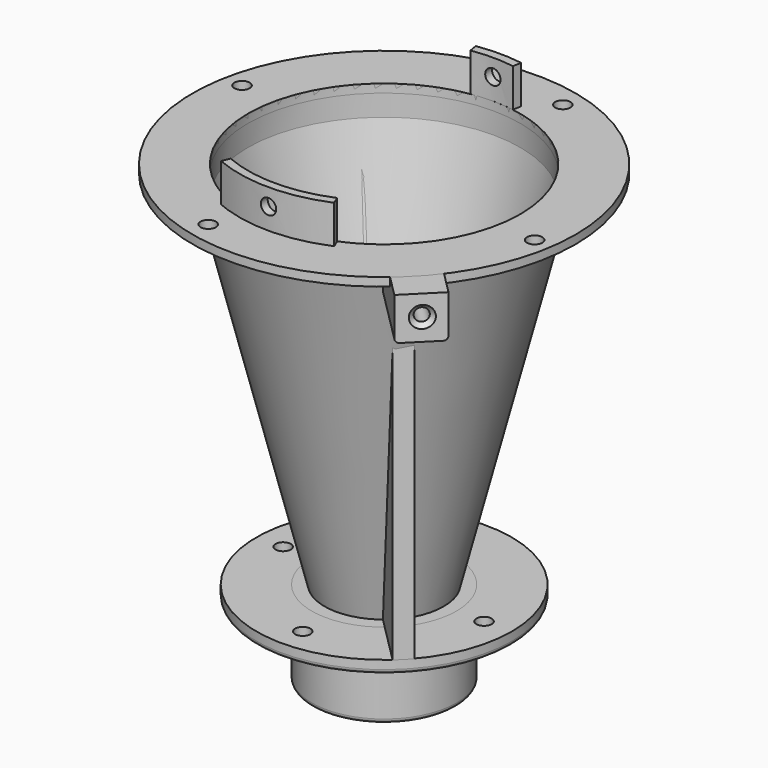
from build123d import *

# Parameters (mm, degrees)
CYLINDER004_R          = 32
CYLINDER004_DEPTH      = 6
CYLINDER003_R          = 34
CYLINDER003_DEPTH      = 6
CYLINDER008_R          = 1.8
CYLINDER008_DEPTH      = 100
CYLINDER008_ROLL_ANGLE = 90
CYLINDER006_R          = 32
CYLINDER006_DEPTH      = 10
CYLINDER005_R          = 34
CYLINDER005_DEPTH      = 10
POCKET001_DEPTH        = 9
CYLINDER007_R          = 14.8
CYLINDER007_DEPTH      = 2
CYLINDER001_R          = 13
CYLINDER001_DEPTH      = 25
CYLINDER_R             = 17
CYLINDER_DEPTH         = 20
FILLET_R               = 1
CYLINDER002_R          = 30
CYLINDER002_DEPTH      = 3
SKETCH_R               = 1.8
POCKET_DEPTH           = 5
FILLET001_R            = 1
BOX_W                  = 4
BOX_H                  = 60
BOX_DEPTH              = 74
BOX_PLACEMENT_ANGLE    = 45
FILLET002_R            = 1
BOX001_W               = 10
BOX001_H               = 20
BOX001_DEPTH           = 10
BOX001_PLACEMENT_ANGLE = 45
FILLET003_R            = 1
FILLET004_R            = 1
SKETCH004_R            = 1.5
POCKET002_DEPTH        = 10
CHAMFER_SIZE           = 1
CYLINDER009_R          = 32
CYLINDER009_DEPTH      = 2
CYLINDER010_R          = 45
CYLINDER010_DEPTH      = 2
SKETCH005_R            = 1.8
POCKET003_DEPTH        = 5


with BuildPart() as cone001:
    # Cone001 → Cone001 (revolve)
    with BuildSketch(Plane.XZ):
        Polygon((0, 0), (13, 0), (32, 80), (0, 80), align=None)
    revolve(axis=Axis((0, 0, 0), (0, 0, 1)))


with BuildPart() as cut:
    # Cone → Cone (revolve)
    with BuildSketch(Plane.XZ):
        Polygon((0, 0), (14, 0), (34, 80), (0, 80), align=None)
    revolve(axis=Axis((0, 0, 0), (0, 0, 1)))

    # Cut: cut Cone001
    add(cone001.part, mode=Mode.SUBTRACT)


with BuildPart() as cylinder004:
    # Cylinder004 → Cylinder004 (new body)
    with BuildSketch(Plane.XY.offset(80)):
        Circle(CYLINDER004_R)
    extrude(amount=CYLINDER004_DEPTH)


with BuildPart() as cut003:
    # Cylinder003 → Cylinder003 (new body)
    with BuildSketch(Plane.XY.offset(80)):
        Circle(CYLINDER003_R)
    extrude(amount=CYLINDER003_DEPTH)

    # Cut003: cut Cylinder004
    add(cylinder004.part, mode=Mode.SUBTRACT)


with BuildPart() as obj1:
    # Cylinder008 → Cylinder008 (new body)
    with BuildSketch(Plane.XY):
        Circle(CYLINDER008_R)
    extrude(amount=CYLINDER008_DEPTH)


with BuildPart() as obj1_1:
    # Cylinder008 roll: moved
    add(obj1.part.rotate(Axis((0, 0, 0), (1, 0, 0)), CYLINDER008_ROLL_ANGLE))


with BuildPart() as obj1_2:
    # Cylinder008 placement: moved
    add(obj1_1.part.moved(Location((0, 50, 92))))


with BuildPart() as cylinder006:
    # Cylinder006 → Cylinder006 (new body)
    with BuildSketch(Plane.XY.offset(86)):
        Circle(CYLINDER006_R)
    extrude(amount=CYLINDER006_DEPTH)


with BuildPart() as cut006:
    # Cylinder005 → Cylinder005 (new body)
    with BuildSketch(Plane.XY.offset(86)):
        Circle(CYLINDER005_R)
    extrude(amount=CYLINDER005_DEPTH)

    # Cut004: cut Cylinder006
    add(cylinder006.part, mode=Mode.SUBTRACT)

    # Sketch003 → Pocket001 (cut)
    with BuildSketch(Plane.XY.offset(96)):
        Polygon((0, 0), (-5.990578, 37.82302), (-31.650867, 27.834166), (-41.242527, 10.455221), (-39.533127, -18.98452), (-26.522657, -31.615118), (-14.993091, -35.321508), align=None)
        Polygon((0, 0), (6.139302, 38.762029), (24.189667, 32.677479), (37.200134, 15.868335), (39.289402, -13.666372), (33.116558, -24.207699), (21.340666, -34.084259), (14.186315, -33.420863), align=None)
    extrude(amount=-POCKET001_DEPTH, mode=Mode.SUBTRACT)

    # Cut006: cut obj1
    add(obj1_2.part, mode=Mode.SUBTRACT)


with BuildPart() as cylinder007:
    # Cylinder007 → Cylinder007 (new body)
    with BuildSketch(Plane.XY.offset(-5)):
        Circle(CYLINDER007_R)
    extrude(amount=CYLINDER007_DEPTH)


with BuildPart() as cylinder001:
    # Cylinder001 → Cylinder001 (new body)
    with BuildSketch(Plane.XY.offset(-20)):
        Circle(CYLINDER001_R)
    extrude(amount=CYLINDER001_DEPTH)


with BuildPart() as cut005:
    # Cylinder → Cylinder (new body)
    with BuildSketch(Plane.XY.offset(-20)):
        Circle(CYLINDER_R)
    extrude(amount=CYLINDER_DEPTH)

    # Cut001: cut Cylinder001
    add(cylinder001.part, mode=Mode.SUBTRACT)

    # Cut005: cut Cylinder007
    add(cylinder007.part, mode=Mode.SUBTRACT)


with BuildPart() as fillet_body:
    # Fillet base: copy of Cut005
    add(cut005.part)

    # Fillet
    fillet_edges = [fillet_body.edges().sort_by_distance(p)[0] for p in [
        (-17, 0, -20),
    ]]
    fillet(fillet_edges, radius=FILLET_R)


with BuildPart() as fillet001:
    # Cylinder002 → Cylinder002 (new body)
    with BuildSketch(Plane.XY.offset(-3)):
        Circle(CYLINDER002_R)
    extrude(amount=CYLINDER002_DEPTH)

    # Cut002: cut Cylinder001
    add(cylinder001.part, mode=Mode.SUBTRACT)

    # Sketch → Pocket (cut)
    with BuildSketch(Plane(origin=(0, 0, -3), x_dir=(1, 0, 0), z_dir=(0, 0, -1))):
        with Locations((0.005002, 23.911297)):
            Circle(SKETCH_R)
        with Locations((23.477133, 0)):
            Circle(SKETCH_R)
        with Locations((0, -23.032949)):
            Circle(SKETCH_R)
        with Locations((-23.82823, -0.10249)):
            Circle(SKETCH_R)
    extrude(amount=-POCKET_DEPTH, mode=Mode.SUBTRACT)

    # Fillet001
    fillet001_edges = [fillet001.edges().sort_by_distance(p)[0] for p in [
        (-30, 0, -3),
    ]]
    fillet(fillet001_edges, radius=FILLET001_R)


with BuildPart() as cut007:
    # Box → Box (new body)
    with BuildSketch(Plane.XY):
        with Locations((2, 30)):
            Rectangle(BOX_W, BOX_H)
    extrude(amount=BOX_DEPTH)


with BuildPart() as cut007_1:
    # Box placement: moved
    add(cut007.part.moved(Location((20, -22.5, 0))).rotate(Axis((20, -22.5, 0), (0, 0, 1)), BOX_PLACEMENT_ANGLE))

    # Cut007: cut Cone001
    add(cone001.part, mode=Mode.SUBTRACT)


with BuildPart() as fillet002:
    # Fillet002 base: copy of Cut005
    add(cut005.part)

    # Fillet002
    fillet002_edges = [fillet002.edges().sort_by_distance(p)[0] for p in [
        (-17, 0, -20),
    ]]
    fillet(fillet002_edges, radius=FILLET002_R)


with BuildPart() as chamfer_body:
    # Box001 → Box001 (new body)
    with BuildSketch(Plane.XY):
        with Locations((5, 10)):
            Rectangle(BOX001_W, BOX001_H)
    extrude(amount=BOX001_DEPTH)


with BuildPart() as chamfer_body_1:
    # Box001 placement: moved
    add(chamfer_body.part.moved(Location((34, -39.5, 77))).rotate(Axis((34, -39.5, 77), (0, 0, 1)), BOX001_PLACEMENT_ANGLE))

    # Fillet003
    fillet003_edges = [chamfer_body_1.edges().sort_by_distance(p)[0] for p in [
        (34, -25.357864, 77),
    ]]
    fillet(fillet003_edges, radius=FILLET003_R)

    # Fillet004
    fillet004_edges = [chamfer_body_1.edges().sort_by_distance(p)[0] for p in [
        (26.928932, -32.428932, 77),
    ]]
    fillet(fillet004_edges, radius=FILLET004_R)

    # Sketch004 → Pocket002 (cut)
    with BuildSketch(Plane(origin=(36.75, -36.75, 0), x_dir=(0.707107, 0.707107, 0), z_dir=(0.707107, -0.707107, 0))):
        with Locations((1.277572, 82.155312)):
            Circle(SKETCH004_R)
    extrude(amount=-POCKET002_DEPTH, mode=Mode.SUBTRACT)

    # Chamfer
    chamfer_edges = [chamfer_body_1.edges().sort_by_distance(p)[0] for p in [
        (36.59272, -36.90728, 82.155312),
    ]]
    chamfer(chamfer_edges, length=CHAMFER_SIZE)


with BuildPart() as cylinder009:
    # Cylinder009 → Cylinder009 (new body)
    with BuildSketch(Plane.XY.offset(85)):
        Circle(CYLINDER009_R)
    extrude(amount=CYLINDER009_DEPTH)


with BuildPart() as pocket003:
    # Cylinder010 → Cylinder010 (new body)
    with BuildSketch(Plane.XY.offset(85)):
        Circle(CYLINDER010_R)
    extrude(amount=CYLINDER010_DEPTH)

    # Cut008: cut Cylinder009
    add(cylinder009.part, mode=Mode.SUBTRACT)

    # Sketch005 → Pocket003 (cut)
    with BuildSketch(Plane.XY.offset(87)):
        with Locations((10.92856, 38.840008)):
            Circle(SKETCH005_R)
        with Locations((40.444542, -6.343234)):
            Circle(SKETCH005_R)
        with Locations((-10.194257, -38.936714)):
            Circle(SKETCH005_R)
        with Locations((-39.850128, 8.065043)):
            Circle(SKETCH005_R)
    extrude(amount=-POCKET003_DEPTH, mode=Mode.SUBTRACT)


solid = Compound([cut.part, cut003.part, cut006.part, fillet_body.part, fillet001.part, cut007_1.part, fillet002.part, chamfer_body_1.part, pocket003.part])
